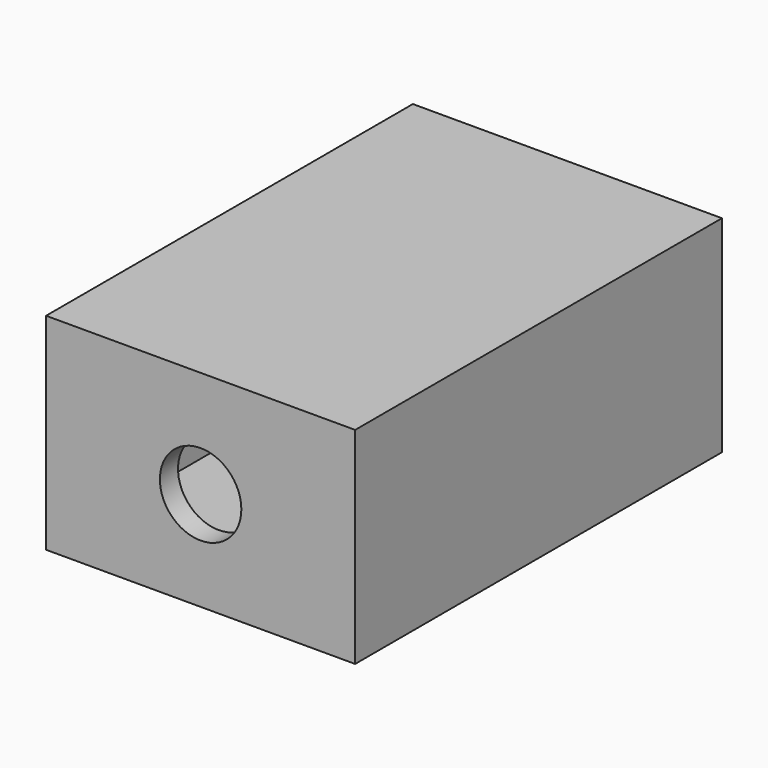
from build123d import *

# Parameters (mm, degrees)
F0_W     = 76.2
F0_H     = 101.6
F1_DEPTH = 50.8
F2_W     = 69.7807297111
F2_H     = 44.052880723
F3_DEPTH = 159.766
F4_W     = 76.2
F4_H     = 50.8
F5_DEPTH = 5.588
F6_W     = 76.2
F6_H     = 50.8
F7_DEPTH = 5.842
F8_R     = 10.042531578
F9_DEPTH = 166.116


with BuildPart() as f1:
    # F0 (on Top) → F1 (new body)
    with BuildSketch(Plane.XY):
        Rectangle(F0_W, F0_H)
    extrude(amount=F1_DEPTH)

    # F2 (on face) → F3 (cut)
    with BuildSketch(Plane.XZ.offset(50.8)):
        with Locations((-0.0047236681, 25.0930653419)):
            Rectangle(F2_W, F2_H)
    extrude(amount=-F3_DEPTH, mode=Mode.SUBTRACT)

    # F4 (on face) → F5 (join)
    with BuildSketch(Plane.XZ.offset(50.8)):
        with Locations((0, 25.4)):
            Rectangle(F4_W, F4_H)
    extrude(amount=F5_DEPTH)

    # F6 (on face) → F7 (join)
    with BuildSketch(Plane(origin=(0, 50.8, 0), x_dir=(-1, 0, 0), z_dir=(0, 1, 0))):
        with Locations((0, 25.4)):
            Rectangle(F6_W, F6_H)
    extrude(amount=F7_DEPTH)

    # F8 (on face) → F9 (cut)
    with BuildSketch(Plane.XZ.offset(56.388)):
        with Locations((0, 24.429988116)):
            Circle(F8_R)
    extrude(amount=-F9_DEPTH, mode=Mode.SUBTRACT)


solid = f1.part
